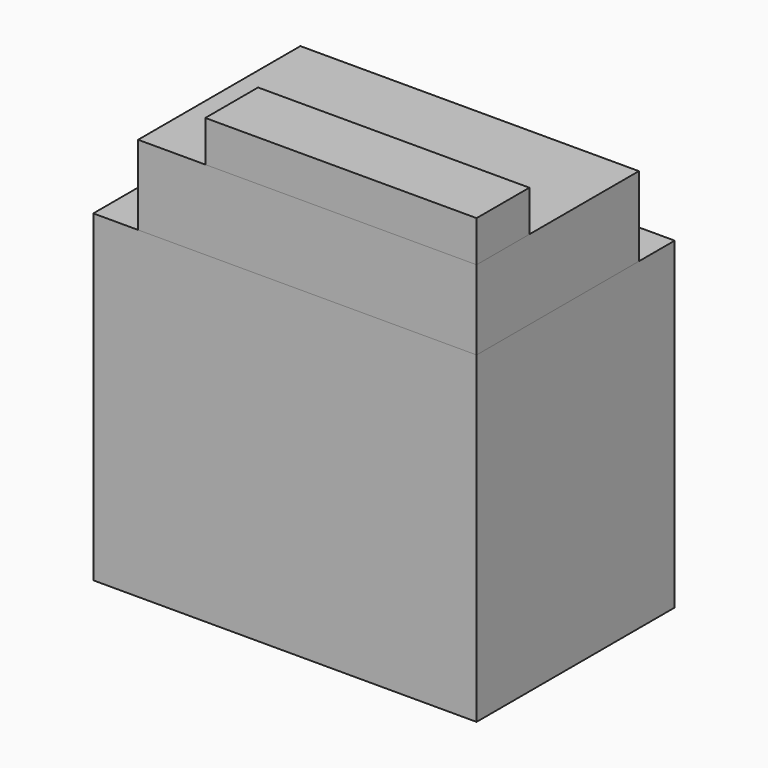
from build123d import *

# Parameters (mm, degrees)
F0_W     = 35.560001
F0_H     = 22.975456
F1_DEPTH = 29.972
F2_W     = 31.403638
F2_H     = 18.819092
F3_DEPTH = 7.366
F4_W     = 25.169091
F4_H     = 6.119091
F5_DEPTH = 3.81


with BuildPart() as f1:
    # F0 (on Top) → F1 (new body)
    with BuildSketch(Plane.XY):
        with Locations((-17.78, 11.487728)):
            Rectangle(F0_W, F0_H)
    extrude(amount=F1_DEPTH)


with BuildPart() as f3:
    # F2 (on face) → F3 (new body)
    with BuildSketch(Plane.XY.offset(29.972)):
        with Locations((-15.701819, 9.409546)):
            Rectangle(F2_W, F2_H)
    extrude(amount=F3_DEPTH)


with BuildPart() as f5:
    # F4 (on face) → F5 (new body)
    with BuildSketch(Plane.XY.offset(37.338)):
        with Locations((-12.584545, 3.059546)):
            Rectangle(F4_W, F4_H)
    extrude(amount=F5_DEPTH)


solid = Compound([f1.part, f3.part, f5.part])
